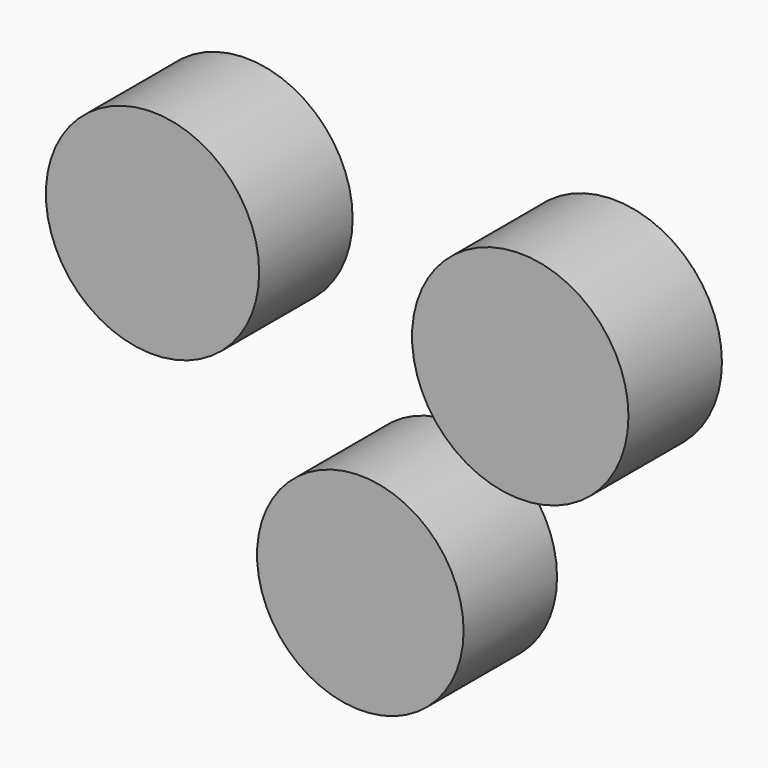
from build123d import *

# Parameters (mm, degrees)
F0_R     = 22.45109
F0_R_2   = 23.184175
F0_R_3   = 23.524317
F1_DEPTH = 25.4


with BuildPart() as f1:
    # F0 (on Front) → F1 (new body)
    with BuildSketch(Plane.XZ):
        Circle(F0_R)
        with Locations((-45.176063, 54.163981)):
            Circle(F0_R_2)
        with Locations((34.769021, 52.744839)):
            Circle(F0_R_3)
    extrude(amount=F1_DEPTH)


solid = f1.part
